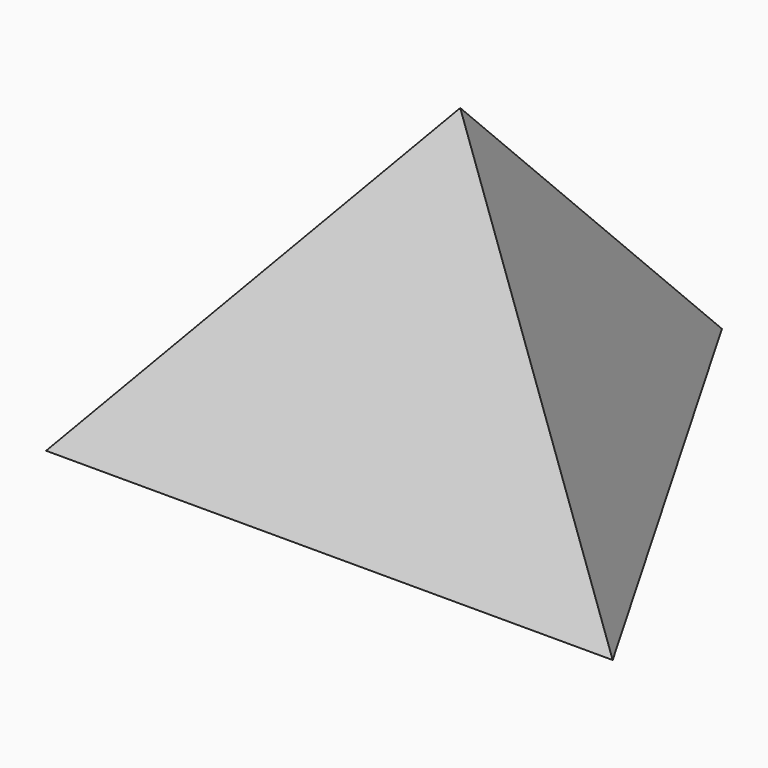
from build123d import *


with BuildPart() as f3:
    # F0 (on Top) → F3 section 0
    with BuildSketch(Plane.XY, mode=Mode.PRIVATE) as f3_s0:
        Polygon((107.285775, -61.941471), (0, 123.882942), (-107.285775, -61.941471), align=None)
    loft([f3_s0.sketch, Vertex(0, 0, 124)])


solid = f3.part
